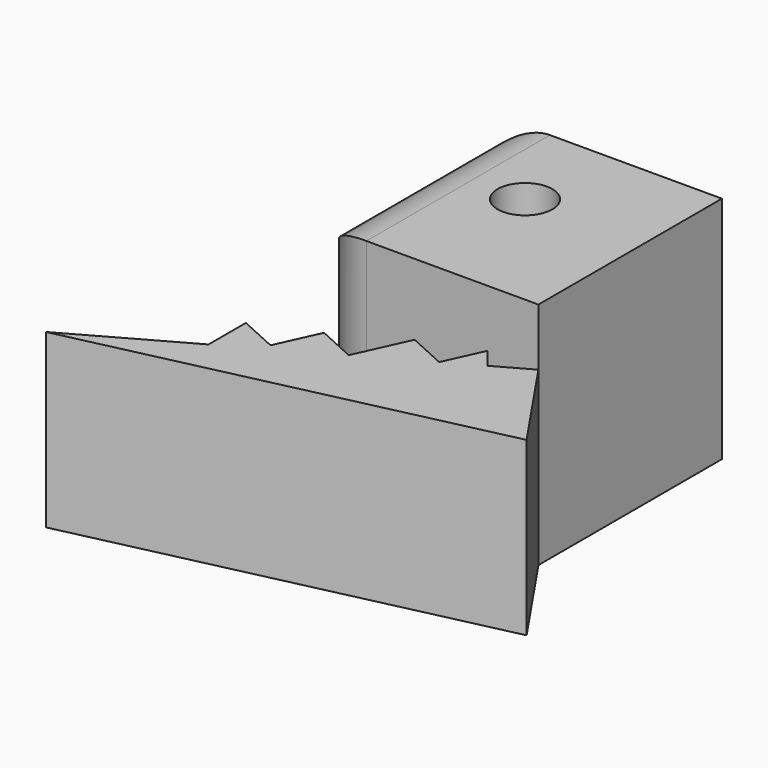
from build123d import *

# Parameters (mm, degrees)
F1_DEPTH = 15
F2_W     = 20
F2_H     = 20
F3_DEPTH = 20
F4_R     = 2.390041
F5_DEPTH = 25
F7_DEPTH = 15
F8_R     = 5


with BuildPart() as f1:
    # F0 (on Top) → F1 (new body)
    with BuildSketch(Plane.XY):
        Polygon((5.837341, -8.584324), (0, 0), (-29.645713, -16.597021), align=None)
    extrude(amount=F1_DEPTH)



with BuildPart() as f3:
    # F2 (on Top) → F3 (new body)
    with BuildSketch(Plane.XY):
        with Locations((-10, 10)):
            Rectangle(F2_W, F2_H)
    extrude(amount=F3_DEPTH)

    # F4 (on Top) → F5 (cut)
    with BuildSketch(Plane.XY):
        with Locations((-10.416062, 11.560683)):
            Circle(F4_R)
    extrude(amount=F5_DEPTH, mode=Mode.SUBTRACT)


with BuildPart() as f1_1:
    add(f1.part)

    add(f3.part)  # F7 merges F3
    # F6 (on face) → F7 (join)
    with BuildSketch(Plane(origin=(0, 0, 0), x_dir=(1, 0, 0), z_dir=(0, 0, -1))):
        Polygon((-5.97543, 3.345318), (-4.453079, 0), (-3.078552, 1.723514), align=None)
        Polygon((-9.339554, 1.814409), (-5.97543, 3.345318), (-11.424466, 6.395937), align=None)
        Polygon((-14.796732, 4.861322), (-11.424466, 6.395937), (-19.861381, 11.119306), (-19.861381, 7.050547), (-16.490955, 8.584324), align=None)
    extrude(amount=-F7_DEPTH)

    # F8
    f8_edges = [f1_1.edges().sort_by_distance(p)[0] for p in [
        (-20, 20, 10),
        (-20, 0, 10),
        (-20, 10, 0),
        (-20, 10, 20),
    ]]
    fillet(f8_edges, radius=F8_R)


solid = f1_1.part
